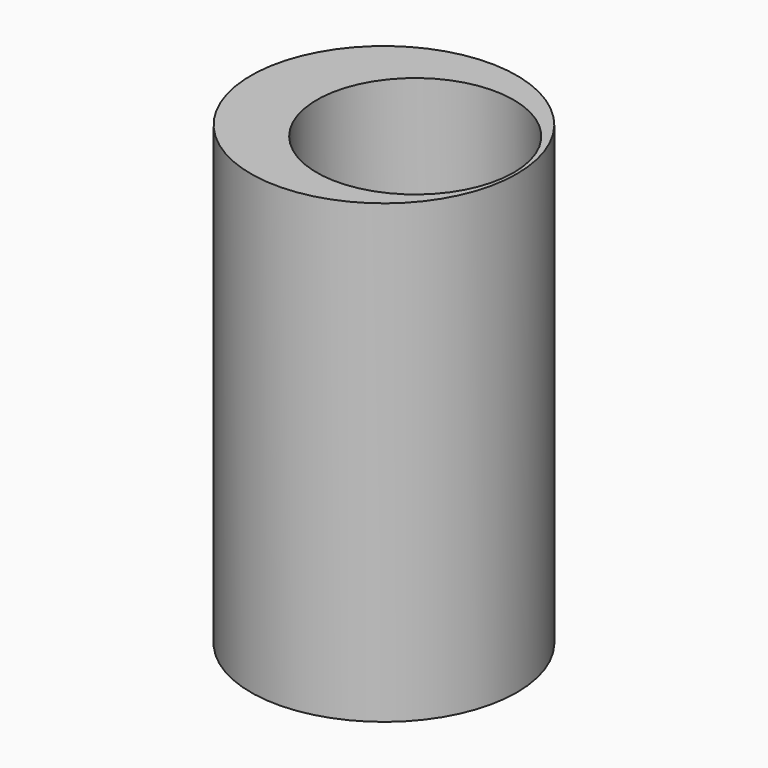
from build123d import *

# Parameters (mm, degrees)
CYLINDER005_R     = 10.2
CYLINDER005_DEPTH = 4
CYLINDER006_R     = 14
CYLINDER006_DEPTH = 4
BOX_W             = 30
BOX_H             = 30
BOX_DEPTH         = 36
CYLINDER004_R     = 4.5
CYLINDER004_DEPTH = 100
CYLINDER_R        = 7.55
CYLINDER_DEPTH    = 45
CYLINDER001_R     = 10.2
CYLINDER001_DEPTH = 70
CYLINDER002_R     = 13
CYLINDER002_DEPTH = 4
CYLINDER003_R     = 13
CYLINDER003_DEPTH = 4


with BuildPart() as cilindro001:
    # Cylinder005 → Cylinder005 (new body)
    with BuildSketch(Plane.XY):
        Circle(CYLINDER005_R)
    extrude(amount=CYLINDER005_DEPTH)


with BuildPart() as cut003:
    # Cylinder006 → Cylinder006 (new body)
    with BuildSketch(Plane.XY):
        Circle(CYLINDER006_R)
    extrude(amount=CYLINDER006_DEPTH)

    # Cut003: cut Cilindro001
    add(cilindro001.part, mode=Mode.SUBTRACT)


with BuildPart() as cubo:
    # Box → Box (new body)
    with BuildSketch(Plane(origin=(-15, -15, 35), x_dir=(1, 0, 0), z_dir=(0, 0, 1))):
        with Locations((15, 15)):
            Rectangle(BOX_W, BOX_H)
    extrude(amount=BOX_DEPTH)


with BuildPart() as cilindro:
    # Cylinder004 → Cylinder004 (new body)
    with BuildSketch(Plane(origin=(2.4, 0, -14), x_dir=(1, 0, 0), z_dir=(0, 0, 1))):
        Circle(CYLINDER004_R)
    extrude(amount=CYLINDER004_DEPTH)


with BuildPart() as rodamiento:
    # Cylinder → Cylinder (new body)
    with BuildSketch(Plane(origin=(2.4, 0, 12.5), x_dir=(1, 0, 0), z_dir=(0, 0, 1))):
        Circle(CYLINDER_R)
    extrude(amount=CYLINDER_DEPTH)


with BuildPart() as pieza_azul:
    # Cylinder001 → Cylinder001 (new body)
    with BuildSketch(Plane.XY):
        Circle(CYLINDER001_R)
    extrude(amount=CYLINDER001_DEPTH)


with BuildPart() as tapa1:
    # Cylinder002 → Cylinder002 (new body)
    with BuildSketch(Plane.XY):
        Circle(CYLINDER002_R)
    extrude(amount=CYLINDER002_DEPTH)


with BuildPart() as cut004:
    # Cylinder003 → Cylinder003 (new body)
    with BuildSketch(Plane.XY.offset(66)):
        Circle(CYLINDER003_R)
    extrude(amount=CYLINDER003_DEPTH)

    # Fusion: union pieza_azul, tapa1
    add(pieza_azul.part)
    add(tapa1.part)

    # Cut: cut rodamiento
    add(rodamiento.part, mode=Mode.SUBTRACT)

    # Cut001: cut Cilindro
    add(cilindro.part, mode=Mode.SUBTRACT)

    # Cut002: cut Cubo
    add(cubo.part, mode=Mode.SUBTRACT)

    # Cut004: cut Cut003
    add(cut003.part, mode=Mode.SUBTRACT)


solid = cut004.part
